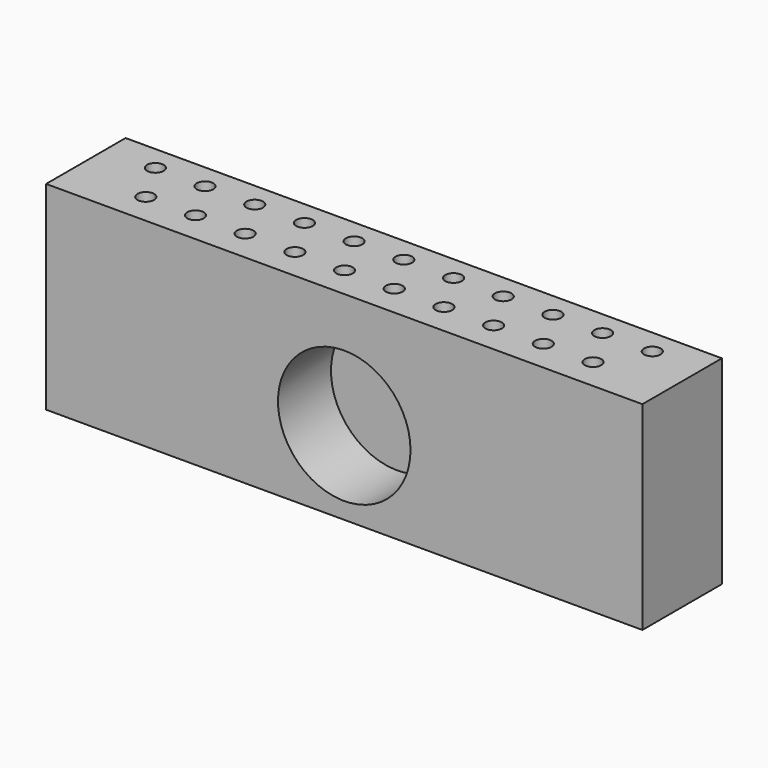
from build123d import *

# Parameters (mm, degrees)
F0_W     = 19.05
F0_H     = 38.1
F1_DEPTH = 57.15
F2_R     = 12.7
F3_DEPTH = 12.7
F5_D     = 3.175
F5_DEPTH = 6.35
F5_TIP   = 0.9538662327


with BuildPart() as f1:
    # F0 (on Right) → F1 (new body, symmetric)
    with BuildSketch(Plane.YZ):
        with Locations((9.525, 19.05)):
            Rectangle(F0_W, F0_H)
    extrude(amount=F1_DEPTH, both=True)

    # F2 (on face) → F3 (cut)
    with BuildSketch(Plane.XZ):
        with Locations((0, 15.875)):
            Circle(F2_R)
    extrude(amount=-F3_DEPTH, mode=Mode.SUBTRACT)

    # F5
    with Locations(Plane.XY.offset(38.1)):
        with Locations((0, 14.2748), (-47.625, 14.2748), (-14.2875, 6.025908029), (-23.8125, 6.025908029), (23.8125, 6.025908029), (-33.3375, 6.025908029), (28.575, 14.2748), (4.7625, 6.025908029), (-4.7625, 6.025908029), (-19.05, 14.2748), (14.2875, 6.025908029), (9.525, 14.2748), (19.05, 14.2748), (42.8625, 6.025908029), (33.3375, 6.025908029), (47.625, 14.2748), (-42.8625, 6.025908029), (38.1, 14.2748), (-28.575, 14.2748), (-9.525, 14.2748), (-38.1, 14.2748)):
            Hole(F5_D / 2, depth=F5_DEPTH)
            with Locations((0, 0, -(F5_DEPTH + F5_TIP / 2))):  # 118° drill point
                Cone(0, F5_D / 2, F5_TIP, mode=Mode.SUBTRACT)


solid = f1.part
